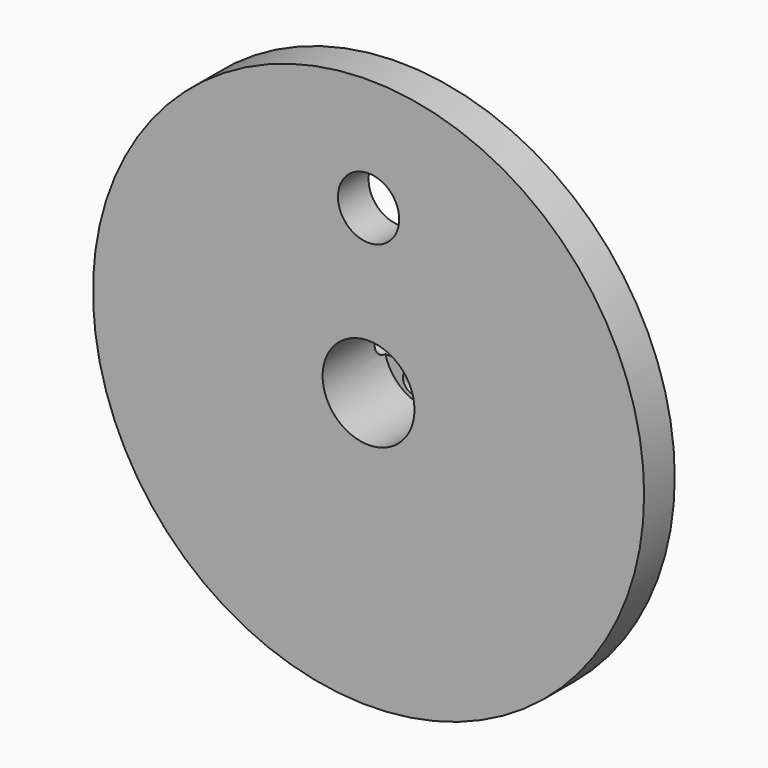
from build123d import *

# Parameters (mm, degrees)
F0_R          = 36
F1_DEPTH      = 15
F2_R          = 65
F2_R_2        = 10
F3_DEPTH      = 10
F4_SIZE       = 0.5
F5_R          = 1.5
F6_DEPTH      = 25
F6_DEPTH_BACK = 25
F7_R          = 4
F8_DEPTH      = 25
F9_R          = 1.5
F10_DEPTH     = 15
F11_R         = 6
F12_DEPTH     = 10


with BuildPart() as f1:
    # F0 (on Front) → F1 (new body)
    with BuildSketch(Plane.XZ):
        Circle(F0_R)
    extrude(amount=F1_DEPTH)

    # F2 (on face) → F3 (cut)
    with BuildSketch(Plane(origin=(0, 0, 0), x_dir=(-1, 0, 0), z_dir=(0, 1, 0))):
        Circle(F2_R)
        Circle(F2_R_2, mode=Mode.SUBTRACT)
    extrude(amount=-F3_DEPTH, mode=Mode.SUBTRACT)

    # F4
    f4_edges = [f1.edges().sort_by_distance(p)[0] for p in [
        (10, -10, 0),
    ]]
    chamfer(f4_edges, length=F4_SIZE)

    # F5 (on Right) → F6 (cut, two sides)
    with BuildSketch(Plane.YZ) as f6_sk:
        with Locations((-5, 0)):
            Circle(F5_R)
    extrude(amount=F6_DEPTH, mode=Mode.SUBTRACT)
    extrude(f6_sk.sketch, amount=-F6_DEPTH_BACK, mode=Mode.SUBTRACT)

    # F7 (on Front) → F8 (cut)
    with BuildSketch(Plane.XZ):
        with Locations((0, 21.25)):
            Circle(F7_R)
    extrude(amount=F8_DEPTH, mode=Mode.SUBTRACT)

    # F9 (on Front) → F10 (cut)
    with BuildSketch(Plane.XZ):
        with Locations((-2, 3.464102)):
            Circle(F9_R)
        with Locations((-2, -3.464102)):
            Circle(F9_R)
        with Locations((4, 0)):
            Circle(F9_R)
    extrude(amount=F10_DEPTH, mode=Mode.SUBTRACT)

    # F11 (on face) → F12 (cut)
    with BuildSketch(Plane.XZ.offset(15)):
        Circle(F11_R)
    extrude(amount=-F12_DEPTH, mode=Mode.SUBTRACT)


solid = f1.part
